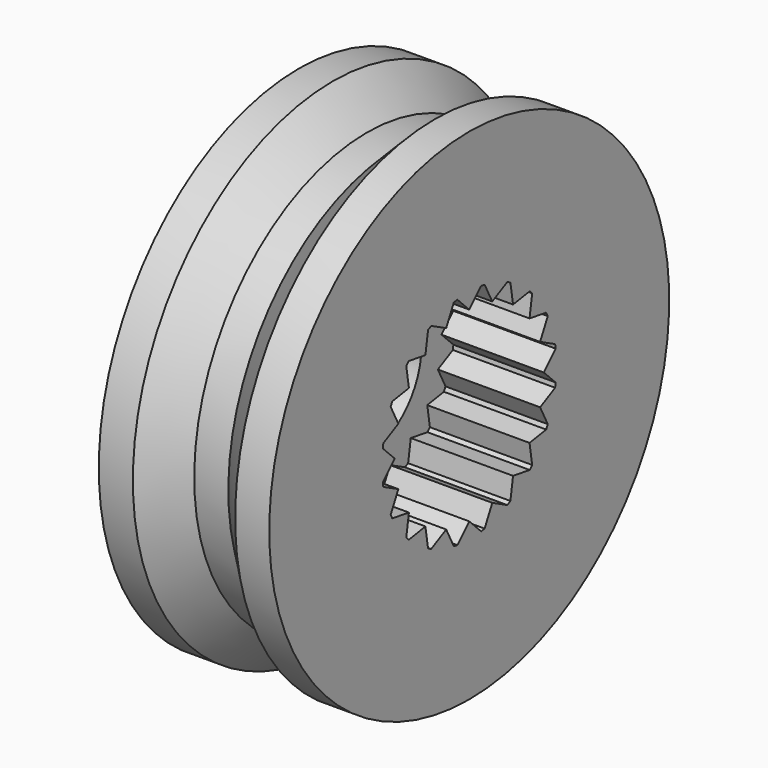
from build123d import *

# Parameters (mm, degrees)
F2_R     = 1.5
F3_DEPTH = 2.25
F4_DEPTH = 3.751


with BuildPart() as f1:
    # F0 (on Front) → F1 (revolve)
    with BuildSketch(Plane.XZ):
        Polygon((-1.875, 5.5), (-1.875, 0), (1.875, 0), (1.875, 5.5), (1.125, 5.5), (0.375, 4.75), (-0.375, 4.75), (-1.125, 5.5), align=None)
    revolve(axis=Axis((0, 0, 0), (-1, 0, 0)))

    # F2 (on face) → F3 (cut)
    with BuildSketch(Plane.YZ.offset(1.875)):
        Polygon((-0.6335184836, 1.9496536007), (-1.0462478749, 2.1599497294), (-1.1325303049, 2.1159866355), (-1.2049934123, 1.6584725808), (-1.662507467, 1.7309356883), (-1.7309815911, 1.6624615642), (-1.6585184836, 1.2049475095), (-2.1160325383, 1.132484402), (-2.1599956322, 1.0462019721), (-1.9496995035, 0.6334725808), (-2.3624288949, 0.4231764522), (-2.3775775446, 0.3275316418), (-2.0500336451, -1.22577e-05), (-2.3775775446, -0.3275561571), (-2.3624288949, -0.4232009675), (-1.9496995035, -0.6334970961), (-2.1599956322, -1.0462264874), (-2.1160325383, -1.1325089174), (-1.6585184836, -1.2049720249), (-1.7309815911, -1.6624860795), (-1.662507467, -1.7309602036), (-1.2049934123, -1.6584970961), (-1.1325303049, -2.1160111508), (-1.0462478749, -2.1599742447), (-0.6335184836, -1.9496781161), (-0.423222355, -2.3624075074), (-0.3275775446, -2.3775561571), (-3.36451e-05, -2.0500122577), (0.3275102543, -2.3775561571), (0.4231550647, -2.3624075074), (0.6334511933, -1.9496781161), (1.0461805846, -2.1599742447), (1.1324630146, -2.1160111508), (1.2049261221, -1.6584970961), (1.6624401767, -1.7309602036), (1.7309143008, -1.6624860795), (1.6584511933, -1.2049720249), (2.115965248, -1.1325089174), (2.1599283419, -1.0462264874), (1.9496322133, -0.6334970961), (2.3623616046, -0.4232009675), (2.3775102543, -0.3275561571), (2.0499663549, -1.22577e-05), (2.3775102543, 0.3275316418), (2.3623616046, 0.4231764522), (1.9496322133, 0.6334725808), (2.1599283419, 1.0462019721), (2.115965248, 1.132484402), (1.6584511933, 1.2049475095), (1.7309143008, 1.6624615642), (1.6624401767, 1.7309356883), (1.2049261221, 1.6584725808), (1.1324630146, 2.1159866355), (1.0461805846, 2.1599497294), (0.6334511933, 1.9496536007), (0.4231550647, 2.3623829921), (0.3275102543, 2.3775316418), (-3.36451e-05, 2.0499877423), (-0.3275775446, 2.3775316418), (-0.423222355, 2.3623829921), align=None)
        Circle(F2_R, mode=Mode.SUBTRACT)
    extrude(amount=-F3_DEPTH, mode=Mode.SUBTRACT)

    # F2 (on face) → F4 (cut, through all)
    with BuildSketch(Plane.YZ.offset(1.875)):
        Circle(F2_R)
    extrude(amount=-F4_DEPTH, mode=Mode.SUBTRACT)


solid = f1.part
